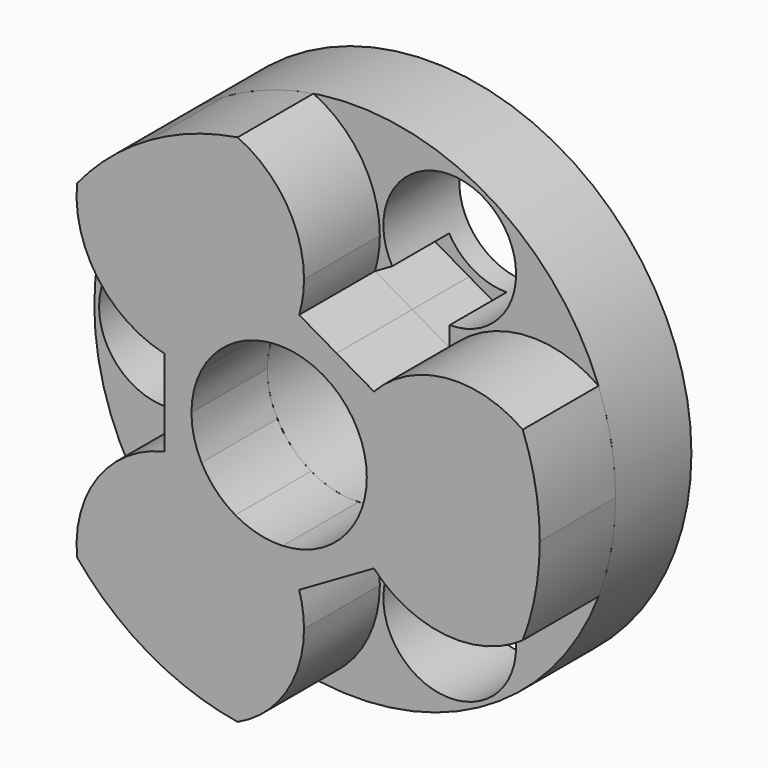
from build123d import *

# Parameters (mm, degrees)
F0_R     = 5.5
F0_R_2   = 1.4
F0_R_3   = 1.85
F1_DEPTH = 1
F3_DEPTH = 2
F4_DEPTH = 1.5


with BuildPart() as f1:
    # F0 (on Front) → F1 (new body, symmetric)
    with BuildSketch(Plane.XZ):
        Circle(F0_R)
        with Locations((2, -3.4641016151)):
            Circle(F0_R_2, mode=Mode.SUBTRACT)
        with Locations((-4, 0)):
            Circle(F0_R_2, mode=Mode.SUBTRACT)
        Circle(F0_R_3, mode=Mode.SUBTRACT)
        with Locations((2, 3.4641016151)):
            Circle(F0_R_2, mode=Mode.SUBTRACT)
    extrude(amount=F1_DEPTH, both=True)

    # F2 (on face) → F4 (cut)
    with BuildSketch(Plane.XZ.offset(1)):
        with BuildLine():
            Line((1.2111829933, 2.0978304817), (1.3, 2.2516660498))
            ThreePointArc((1.3, 2.2516660498), (1.0100505063, 2.4741521215), (0.7875644347, 2.7641016151))
            Line((0.7875644347, 2.7641016151), (0.4223659867, 2.5532541929))
            Line((0.4223659867, 2.5532541929), (1.2111829933, 2.0978304817))
        make_face()
        with BuildLine():
            ThreePointArc((2, 2.0641016151), (1.6376533369, 2.1118054583), (1.3, 2.2516660498))
            Line((1.3, 2.2516660498), (1.2111829933, 2.0978304817))
            Line((1.2111829933, 2.0978304817), (2, 1.6424067706))
            Line((2, 1.6424067706), (2, 2.0641016151))
        make_face()
        with BuildLine():
            Line((2, -2.0641016151), (2, -1.6424067706))
            Line((2, -1.6424067706), (0.4223659867, -2.5532541929))
            Line((0.4223659867, -2.5532541929), (0.7875644347, -2.7641016151))
            ThreePointArc((0.7875644347, -2.7641016151), (1.3, -2.2516660498), (2, -2.0641016151))
        make_face()
        with BuildLine():
            Line((-2.4223659867, -0.9108474223), (-2.4223659867, 0))
            Line((-2.4223659867, 0), (-2.6, 0))
            ThreePointArc((-2.6, 0), (-2.6477038432, -0.3623466631), (-2.7875644347, -0.7))
            Line((-2.7875644347, -0.7), (-2.4223659867, -0.9108474223))
        make_face()
        with BuildLine():
            Line((-2.4223659867, 0), (-2.4223659867, 0.9108474223))
            Line((-2.4223659867, 0.9108474223), (-2.7875644347, 0.7))
            ThreePointArc((-2.7875644347, 0.7), (-2.6477038432, 0.3623466631), (-2.6, 0))
            Line((-2.6, 0), (-2.4223659867, 0))
        make_face()
    extrude(amount=-F4_DEPTH, mode=Mode.SUBTRACT)


with BuildPart() as f3:
    # F2 (on face) → F3 (new body)
    with BuildSketch(Plane.XZ.offset(1)):
        with BuildLine():
            Line((-1, 1.7320508076), (0.4223659867, 2.5532541929))
            ThreePointArc((0.4223659867, 2.5532541929), (0.4992028523, 2.896652511), (0.525, 3.2475952642))
            ThreePointArc((0.525, 3.2475952642), (0.1446064838, 4.5442022404), (-0.8759913757, 5.4297918109))
            ThreePointArc((-0.8759913757, 5.4297918109), (-1.843382656, 5.1818857941), (-2.75, 4.7631397208))
            Line((-2.75, 4.7631397208), (-1, 1.7320508076))
        make_face()
        with BuildLine():
            Line((-2.4223659867, 0.9108474223), (-1, 1.7320508076))
            Line((-1, 1.7320508076), (-2.75, 4.7631397208))
            ThreePointArc((-2.75, 4.7631397208), (-3.5659534093, 4.1873591061), (-4.2643419577, 3.4735266903))
            ThreePointArc((-4.2643419577, 3.4735266903), (-3.823818782, 1.8468435536), (-2.4223659867, 0.9108474223))
        make_face()
        with BuildLine():
            ThreePointArc((5.1403333333, 1.9562651206), (3.5113228252, 2.3881024279), (2, 1.6424067706))
            Line((2, 1.6424067706), (2, 0))
            Line((2, 0), (5.5, 0))
            ThreePointArc((5.5, 0), (5.4093360652, 0.9945266881), (5.1403333333, 1.9562651206))
        make_face()
        with BuildLine():
            Line((5.5, 0), (2, 0))
            Line((2, 0), (2, -1.6424067706))
            ThreePointArc((2, -1.6424067706), (3.5113228252, -2.3881024279), (5.1403333333, -1.9562651206))
            ThreePointArc((5.1403333333, -1.9562651206), (5.4093360652, -0.9945266881), (5.5, 0))
        make_face()
        with BuildLine():
            ThreePointArc((0.525, -3.2475952642), (0.4992028523, -2.896652511), (0.4223659867, -2.5532541929))
            Line((0.4223659867, -2.5532541929), (-1, -1.7320508076))
            Line((-1, -1.7320508076), (-2.75, -4.7631397208))
            ThreePointArc((-2.75, -4.7631397208), (-1.843382656, -5.1818857941), (-0.8759913757, -5.4297918109))
            ThreePointArc((-0.8759913757, -5.4297918109), (0.1446064838, -4.5442022404), (0.525, -3.2475952642))
        make_face()
        with BuildLine():
            Line((-2.75, -4.7631397208), (-1, -1.7320508076))
            Line((-1, -1.7320508076), (-2.4223659867, -0.9108474223))
            ThreePointArc((-2.4223659867, -0.9108474223), (-3.823818782, -1.8468435536), (-4.2643419577, -3.4735266903))
            ThreePointArc((-4.2643419577, -3.4735266903), (-3.5659534093, -4.1873591061), (-2.75, -4.7631397208))
        make_face()
        with BuildLine():
            Line((0.925, 1.602146997), (1.2111829933, 2.0978304817))
            Line((1.2111829933, 2.0978304817), (0.4223659867, 2.5532541929))
            ThreePointArc((0.4223659867, 2.5532541929), (0.2777174855, 2.1865545357), (0.0749935149, 1.8484793677))
            ThreePointArc((0.0749935149, 1.8484793677), (0.5149433626, 1.7768886666), (0.925, 1.602146997))
        make_face()
        with BuildLine():
            Line((2, 1.6424067706), (1.2111829933, 2.0978304817))
            Line((1.2111829933, 2.0978304817), (0.925, 1.602146997))
            ThreePointArc((0.925, 1.602146997), (1.2813590436, 1.3343983668), (1.5633333333, 0.9891859729))
            ThreePointArc((1.5633333333, 0.9891859729), (1.7547530319, 1.3337876654), (2, 1.6424067706))
        make_face()
        with BuildLine():
            Line((0.4223659867, -2.5532541929), (2, -1.6424067706))
            ThreePointArc((2, -1.6424067706), (1.7547530319, -1.3337876654), (1.5633333333, -0.9891859729))
            ThreePointArc((1.5633333333, -0.9891859729), (0.925, -1.602146997), (0.0749935149, -1.8484793677))
            ThreePointArc((0.0749935149, -1.8484793677), (0.2777174855, -2.1865545357), (0.4223659867, -2.5532541929))
        make_face()
        with BuildLine():
            ThreePointArc((-1.6383268482, 0.8592933948), (-2.0324705174, 0.8527668703), (-2.4223659867, 0.9108474223))
            Line((-2.4223659867, 0.9108474223), (-2.4223659867, 0))
            Line((-2.4223659867, 0), (-1.85, 0))
            ThreePointArc((-1.85, 0), (-1.7963024062, 0.4424902998), (-1.6383268482, 0.8592933948))
        make_face()
        with BuildLine():
            ThreePointArc((-1.6383268482, -0.8592933948), (-1.7963024062, -0.4424902998), (-1.85, 0))
            Line((-1.85, 0), (-2.4223659867, 0))
            Line((-2.4223659867, 0), (-2.4223659867, -0.9108474223))
            ThreePointArc((-2.4223659867, -0.9108474223), (-2.0324705174, -0.8527668703), (-1.6383268482, -0.8592933948))
        make_face()
        with BuildLine():
            ThreePointArc((0.0749935149, 1.8484793677), (0.2777174855, 2.1865545357), (0.4223659867, 2.5532541929))
            Line((0.4223659867, 2.5532541929), (-1, 1.7320508076))
            Line((-1, 1.7320508076), (-0.925, 1.602146997))
            ThreePointArc((-0.925, 1.602146997), (-0.4424902998, 1.7963024062), (0.0749935149, 1.8484793677))
        make_face()
        with BuildLine():
            Line((-0.925, 1.602146997), (-1, 1.7320508076))
            Line((-1, 1.7320508076), (-2.4223659867, 0.9108474223))
            ThreePointArc((-2.4223659867, 0.9108474223), (-2.0324705174, 0.8527668703), (-1.6383268482, 0.8592933948))
            ThreePointArc((-1.6383268482, 0.8592933948), (-1.3343983668, 1.2813590436), (-0.925, 1.602146997))
        make_face()
        with BuildLine():
            ThreePointArc((-0.925, -1.602146997), (-1.3343983668, -1.2813590436), (-1.6383268482, -0.8592933948))
            ThreePointArc((-1.6383268482, -0.8592933948), (-2.0324705174, -0.8527668703), (-2.4223659867, -0.9108474223))
            Line((-2.4223659867, -0.9108474223), (-1, -1.7320508076))
            Line((-1, -1.7320508076), (-0.925, -1.602146997))
        make_face()
        with BuildLine():
            Line((-1, -1.7320508076), (0.4223659867, -2.5532541929))
            ThreePointArc((0.4223659867, -2.5532541929), (0.2777174855, -2.1865545357), (0.0749935149, -1.8484793677))
            ThreePointArc((0.0749935149, -1.8484793677), (-0.4424902998, -1.7963024062), (-0.925, -1.602146997))
            Line((-0.925, -1.602146997), (-1, -1.7320508076))
        make_face()
        with BuildLine():
            Line((2, -1.6424067706), (2, 0))
            Line((2, 0), (1.85, 0))
            ThreePointArc((1.85, 0), (1.7768886666, -0.5149433626), (1.5633333333, -0.9891859729))
            ThreePointArc((1.5633333333, -0.9891859729), (1.7547530319, -1.3337876654), (2, -1.6424067706))
        make_face()
        with BuildLine():
            Line((2, 0), (2, 1.6424067706))
            ThreePointArc((2, 1.6424067706), (1.7547530319, 1.3337876654), (1.5633333333, 0.9891859729))
            ThreePointArc((1.5633333333, 0.9891859729), (1.7768886666, 0.5149433626), (1.85, 0))
            Line((1.85, 0), (2, 0))
        make_face()
    extrude(amount=F3_DEPTH)


solid = Compound([f1.part, f3.part])
